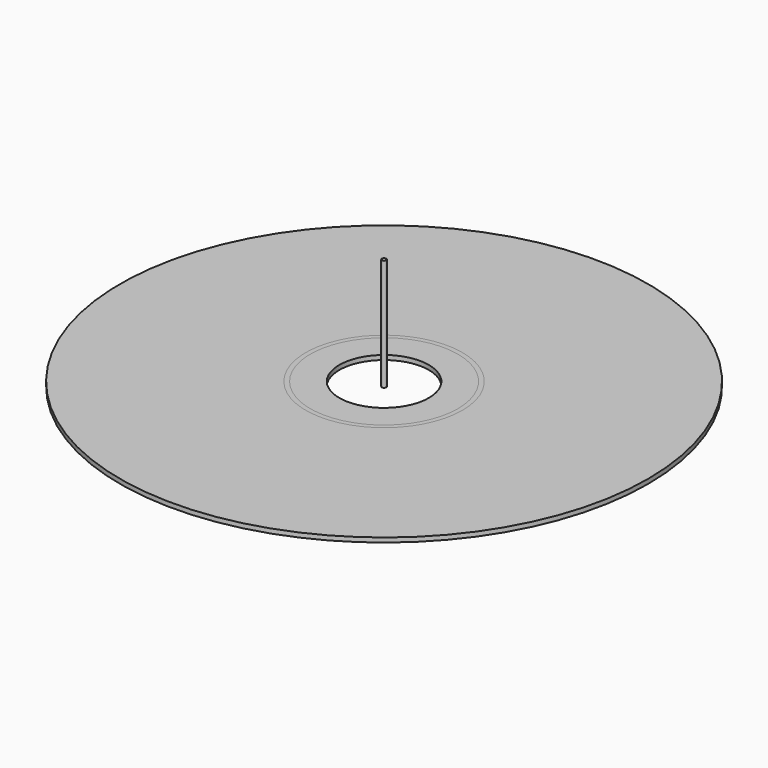
from build123d import *

# Parameters (mm, degrees)
F0_R     = 59
F0_R_2   = 17.5
F1_DEPTH = 1
F2_R     = 0.5
F3_DEPTH = 25
F0_R_3   = 16.5
F0_R_4   = 10
F4_DEPTH = 1
F5_DEPTH = 1


with BuildPart() as f1:
    # F0 (on Top) → F1 (new body)
    with BuildSketch(Plane.XY):
        Circle(F0_R)
        Circle(F0_R_2, mode=Mode.SUBTRACT)
    extrude(amount=F1_DEPTH)


with BuildPart() as f3:
    # F2 (on Top) → F3 (new body)
    with BuildSketch(Plane.XY):
        Circle(F2_R)
    extrude(amount=F3_DEPTH)


with BuildPart() as f4:
    # F0 (on Top) → F4 (new body)
    with BuildSketch(Plane.XY):
        Circle(F0_R_3)
        Circle(F0_R_4, mode=Mode.SUBTRACT)
    extrude(amount=F4_DEPTH)


with BuildPart() as f5:
    # F0 (on Top) → F5 (new body)
    with BuildSketch(Plane.XY):
        Circle(F0_R_2)
        Circle(F0_R_3, mode=Mode.SUBTRACT)
    extrude(amount=F5_DEPTH)


solid = Compound([f1.part, f3.part, f4.part, f5.part])
